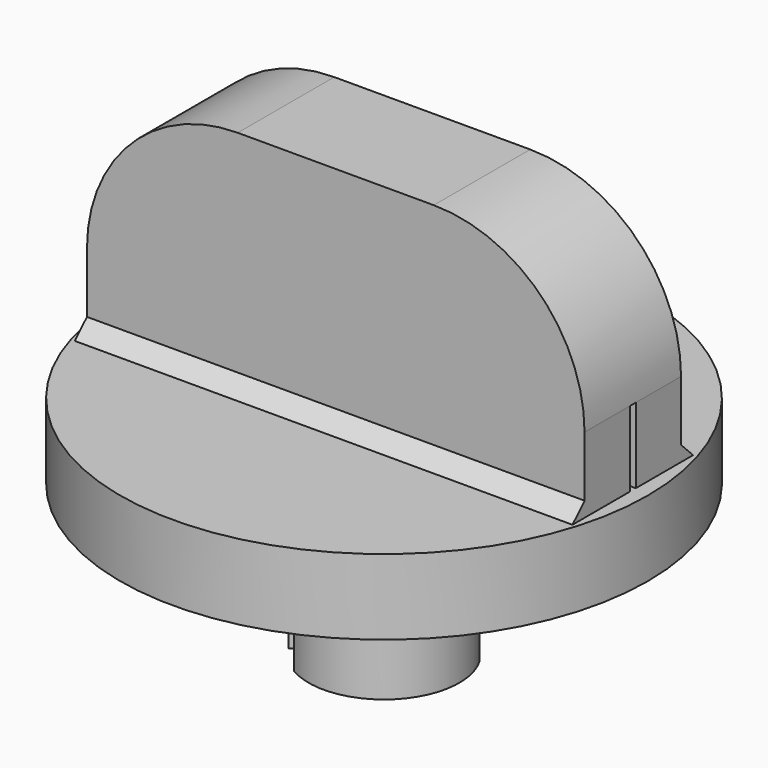
from build123d import *

# Parameters (mm, degrees)
SKETCH_R        = 17.5
PAD_DEPTH       = 5
SKETCH001_W     = 33
SKETCH001_H     = 8
PAD001_DEPTH    = 20
FILLET_R        = 10
CHAMFER_SIZE    = 1
SKETCH002_R     = 16.25
POCKET_DEPTH    = 3
SKETCH003_R     = 5
SKETCH003_R_2   = 3.75
PAD002_DEPTH    = 13
CHAMFER001_SIZE = 1
POCKET001_DEPTH = 5
PAD003_DEPTH    = 8
SKETCH006_W     = 0.5
SKETCH006_H     = 5
POCKET002_DEPTH = 1


with BuildPart() as part:
    # Sketch → Pad (new body)
    with BuildSketch(Plane.XY):
        Circle(SKETCH_R)
    extrude(amount=PAD_DEPTH)

    # Sketch001 → Pad001 (join)
    with BuildSketch(Plane.XY):
        Rectangle(SKETCH001_W, SKETCH001_H)
    extrude(amount=PAD001_DEPTH)

    # Fillet
    fillet_edges = [part.edges().sort_by_distance(p)[0] for p in [
        (-16.5, 0, 20),
        (16.5, 0, 20),
    ]]
    fillet(fillet_edges, radius=FILLET_R)

    # Chamfer
    chamfer_edges = [part.edges().sort_by_distance(p)[0] for p in [
        (0, -4, 5),
        (0, 4, 5),
    ]]
    chamfer(chamfer_edges, length=CHAMFER_SIZE)

    # Sketch002 (on Face12 of Chamfer) → Pocket (cut)
    with BuildSketch(Plane(origin=(0, 0, 0), x_dir=(1, 0, 0), z_dir=(0, 0, -1))):
        Circle(SKETCH002_R)
    extrude(amount=-POCKET_DEPTH, mode=Mode.SUBTRACT)

    # Sketch003 (on Face16 of Pocket) → Pad002 (join)
    with BuildSketch(Plane(origin=(0, 0, 3), x_dir=(1, 0, 0), z_dir=(0, 0, -1))):
        Circle(SKETCH003_R)
        Circle(SKETCH003_R_2, mode=Mode.SUBTRACT)
    extrude(amount=PAD002_DEPTH)

    # Chamfer001
    chamfer001_edges = [part.edges().sort_by_distance(p)[0] for p in [
        (-5, 0, 3),
    ]]
    chamfer(chamfer001_edges, length=CHAMFER001_SIZE)

    # Sketch004 (on Face8 of Chamfer001) → Pocket001 (cut)
    with BuildSketch(Plane(origin=(0, 0, -10), x_dir=(1, 0, 0), z_dir=(0, 0, -1))):
        Polygon((-3.071599, 4.843548), (4.621057, -2.849107), (2.85329, -4.616874), (-4.839366, 3.075782), align=None)
    extrude(amount=-POCKET001_DEPTH, mode=Mode.SUBTRACT)

    # Sketch005 (on Face10 of Pocket001) → Pad003 (join)
    with BuildSketch(Plane(origin=(0, 0, -5), x_dir=(1, 0, 0), z_dir=(0, 0, -1))):
        with BuildLine():
            ThreePointArc((3.089579, -4.849433), (4.069086, -4.062639), (4.854326, -3.081886))
            Line((4.3087, -2.53675), (4.854326, -3.081886))
            ThreePointArc((2.542013, -4.305597), (3.537693, -3.533373), (4.3087, -2.53675))
            Line((2.542013, -4.305597), (3.089579, -4.849433))
        make_face()
    extrude(amount=-PAD003_DEPTH)

    # Sketch006 (on Face27 of Pad003) → Pocket002 (cut)
    with BuildSketch(Plane.YZ.offset(16.5)):
        with Locations((0, 7.5)):
            Rectangle(SKETCH006_W, SKETCH006_H)
    extrude(amount=-POCKET002_DEPTH, mode=Mode.SUBTRACT)


solid = part.part
